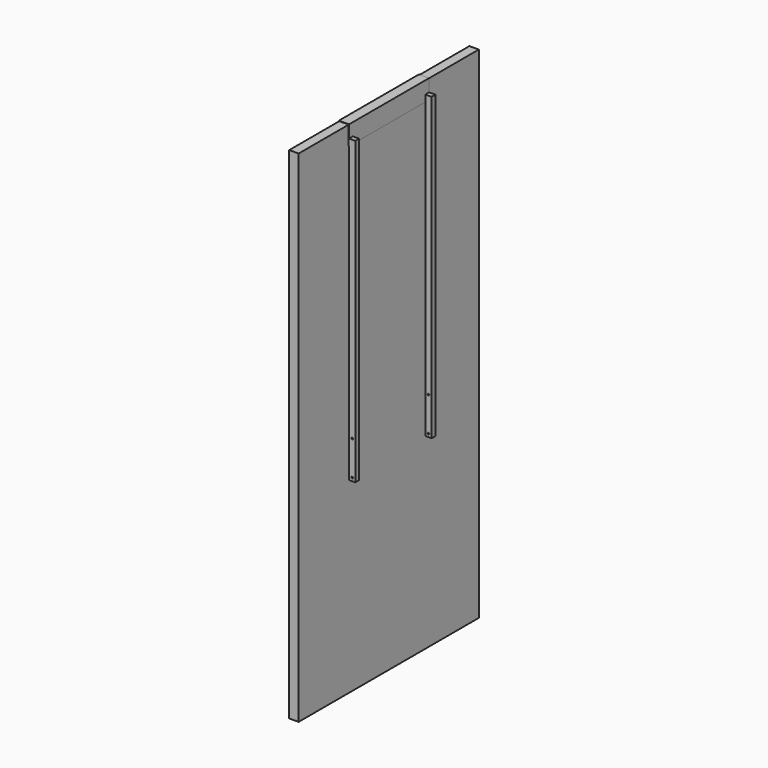
from build123d import *

# Parameters (mm, degrees)
F0_W     = 914.4
F0_H     = 2032
F1_DEPTH = 38.1
F3_DEPTH = 203.2
F4_W     = 19.05
F4_H     = 1220.7875
F5_DEPTH = 25.4
F6_R     = 3.175
F7_DEPTH = 660.401


with BuildPart() as f1:
    # F0 (on Right) → F1 (new body)
    with BuildSketch(Plane.YZ):
        with Locations((0, 1016)):
            Rectangle(F0_W, F0_H)
    extrude(amount=F1_DEPTH)


with BuildPart() as f3:
    # F2 (on Front) → F3 (new body, symmetric)
    with BuildSketch(Plane.XZ):
        Polygon((-1.5875, 1981.2), (0, 1981.2), (0, 2032), (38.1, 2032), (38.1, 1955.8), (39.6875, 1955.8), (39.6875, 2033.5875), (-1.5875, 2033.5875), align=None)
    extrude(amount=F3_DEPTH, both=True)


with BuildPart() as f5:
    # F4 (on face) → F5 (new body)
    with BuildSketch(Plane.YZ.offset(39.6875)):
        with Locations((-193.675, 1372.39375)):
            Rectangle(F4_W, F4_H)
    extrude(amount=F5_DEPTH)


with BuildPart() as f5b:
    # F4 (on face) → F5, piece 2 (new body)
    with BuildSketch(Plane.YZ.offset(39.6875)):
        with Locations((193.675, 1372.39375)):
            Rectangle(F4_W, F4_H)
    extrude(amount=F5_DEPTH)


with BuildPart() as f7_tool:
    # F6 (on face) → F7 (new body, through all)
    with BuildSketch(Plane.XZ.offset(203.2)):
        with Locations((52.3875, 914.4)):
            Circle(F6_R)
        with Locations((52.3875, 774.7)):
            Circle(F6_R)
    extrude(amount=-F7_DEPTH)


with BuildPart() as f5_1:
    add(f5.part)

    # F7: cut by f7_tool
    add(f7_tool.part, mode=Mode.SUBTRACT)


with BuildPart() as f5b_1:
    add(f5b.part)

    # F7: cut by f7_tool
    add(f7_tool.part, mode=Mode.SUBTRACT)


solid = Compound([f1.part, f3.part, f5_1.part, f5b_1.part])
